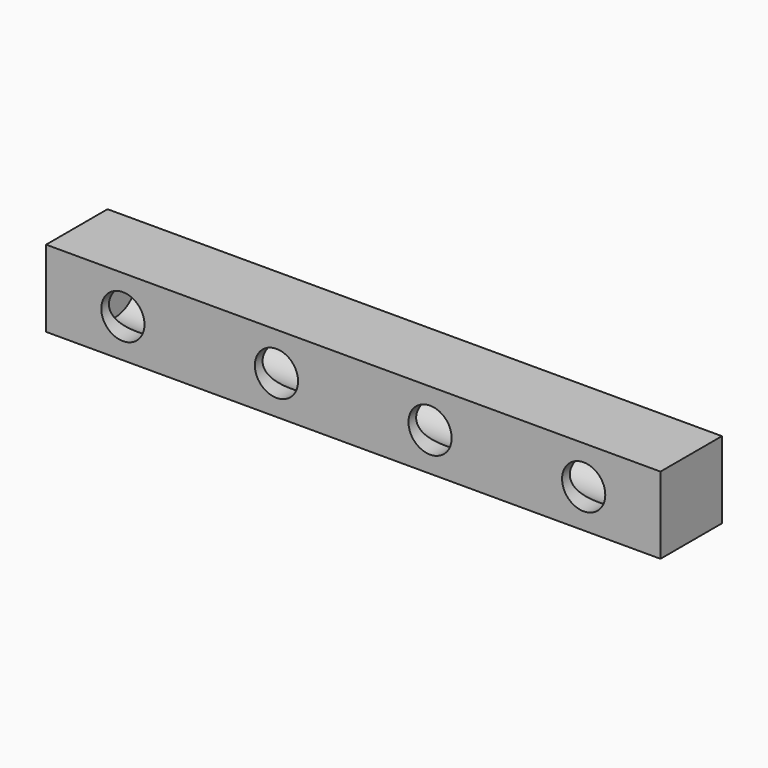
from build123d import *

# Parameters (mm, degrees)
F0_W     = 203.2
F0_H     = 25.4
F1_DEPTH = 25.4
F3_R     = 9.525
F4_DEPTH = 190.5
F5_R     = 9.525
F6_DEPTH = 12.7
F2_R     = 7.14375
F7_DEPTH = 19.05


with BuildPart() as f1:
    # F0 (on Front) → F1 (new body)
    with BuildSketch(Plane.XZ):
        Rectangle(F0_W, F0_H)
    extrude(amount=F1_DEPTH)

    # F3 (on face) → F4 (cut)
    with BuildSketch(Plane.YZ.offset(101.6)):
        with Locations((-12.7, 0)):
            Circle(F3_R)
    extrude(amount=-F4_DEPTH, mode=Mode.SUBTRACT)

    # F5 (on face) → F6 (join)
    with BuildSketch(Plane.YZ.offset(101.6)):
        with Locations((-12.7, 0)):
            Circle(F5_R)
    extrude(amount=-F6_DEPTH)

    # F2 (on face) → F7 (cut)
    with BuildSketch(Plane.XZ.offset(25.4)):
        with Locations((-76.2, 0)):
            Circle(F2_R)
        with Locations((-25.4, 0)):
            Circle(F2_R)
        with Locations((25.4, 0)):
            Circle(F2_R)
        with Locations((76.2, 0)):
            Circle(F2_R)
    extrude(amount=-F7_DEPTH, mode=Mode.SUBTRACT)


solid = f1.part
